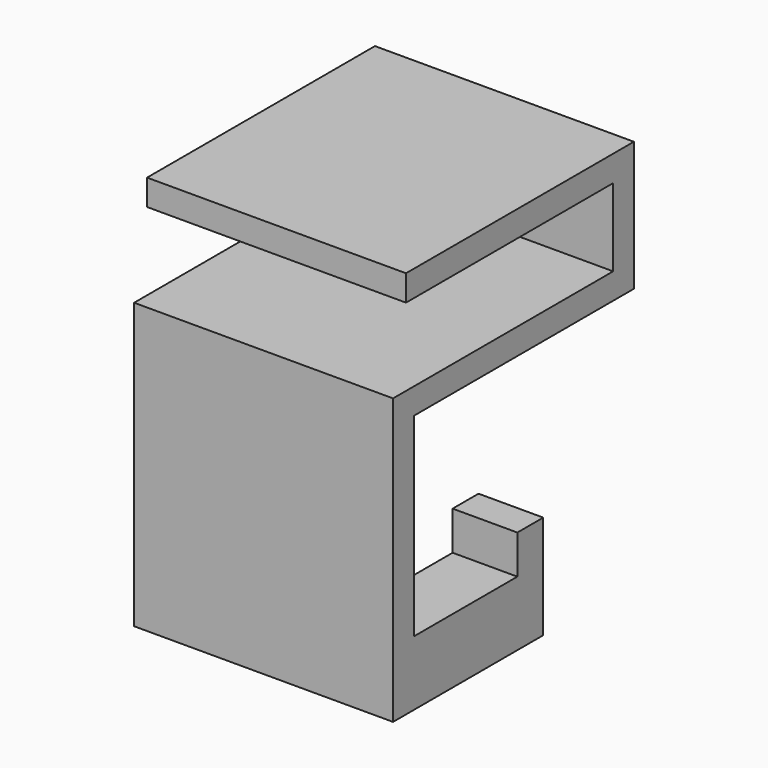
from build123d import *

# Parameters (mm, degrees)
F0_W      = 50.8
F0_H      = 55.88
F1_DEPTH  = 5.08
F2_W      = 50.8
F2_H      = 5.08
F3_DEPTH  = 20.32
F4_W      = 50.8
F4_H      = 5.08
F5_DEPTH  = 53.975
F6_W      = 50.8
F6_H      = 5.08
F7_DEPTH  = 50.8
F8_W      = 12.7
F8_H      = 20.32
F9_DEPTH  = 31.75
F10_W     = 25.4
F10_H     = 7.62
F11_DEPTH = 50.8


with BuildPart() as f1:
    # F0 (on Top) → F1 (new body)
    with BuildSketch(Plane.XY):
        with Locations((25.4, 27.94)):
            Rectangle(F0_W, F0_H)
    extrude(amount=F1_DEPTH)

    # F2 (on face) → F3 (join)
    with BuildSketch(Plane(origin=(0, 0, 0), x_dir=(1, 0, 0), z_dir=(0, 0, -1))):
        with Locations((25.4, -53.34)):
            Rectangle(F2_W, F2_H)
    extrude(amount=F3_DEPTH)

    # F4 (on face) → F5 (join)
    with BuildSketch(Plane.XZ.offset(-50.8)):
        with Locations((25.4, -17.78)):
            Rectangle(F4_W, F4_H)
    extrude(amount=F5_DEPTH)

    # F6 (on face) → F7 (join)
    with BuildSketch(Plane(origin=(0, 0, -20.32), x_dir=(1, 0, 0), z_dir=(0, 0, -1))):
        with Locations((25.4, 0.635)):
            Rectangle(F6_W, F6_H)
    extrude(amount=F7_DEPTH)

    # F8 (on face) → F9 (join)
    with BuildSketch(Plane(origin=(0, 1.905, 0), x_dir=(-1, 0, 0), z_dir=(0, 1, 0))):
        with Locations((-44.45, -60.96)):
            Rectangle(F8_W, F8_H)
        with Locations((-6.35, -60.96)):
            Rectangle(F8_W, F8_H)
    extrude(amount=F9_DEPTH)

    # F10 (on face) → F11 (cut)
    with BuildSketch(Plane.YZ.offset(50.8)):
        with Locations((14.605, -54.61)):
            Rectangle(F10_W, F10_H)
    extrude(amount=-F11_DEPTH, mode=Mode.SUBTRACT)


solid = f1.part
